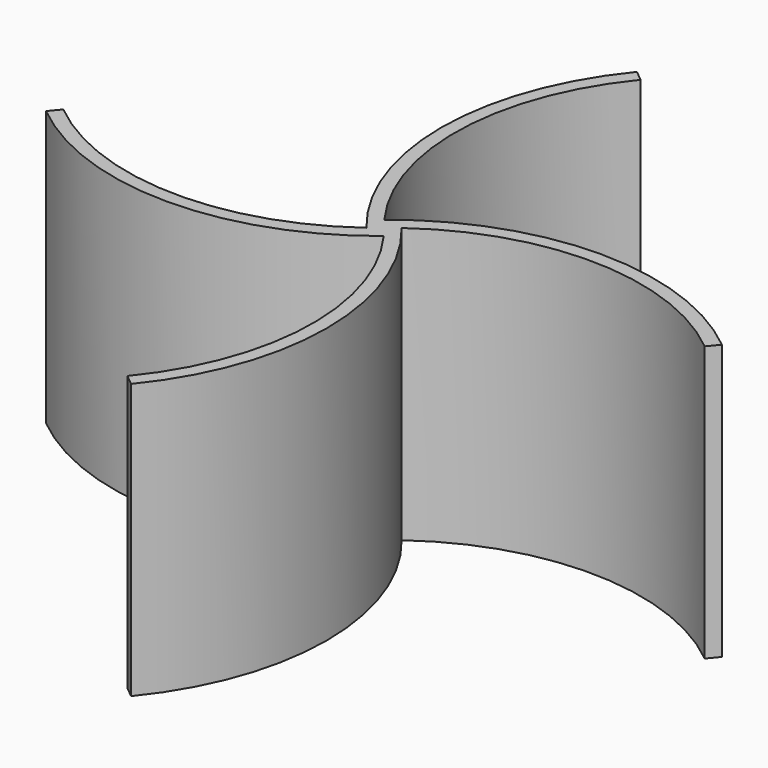
from build123d import *

# Parameters (mm, degrees)
F1_DEPTH = 76.2
F2_SCALE = 0.5


with BuildPart() as f1:
    # F0 (on Top) → F1 (new body)
    with BuildSketch(Plane.XY):
        with BuildLine():
            ThreePointArc((2.3381830586, -3.0098508649), (15.8899031562, -46.3556693211), (0, -88.9))
            Line((0, -88.9), (2.9440731391, -91.3183741132))
            ThreePointArc((2.9440731391, -91.3183741132), (19.7258191096, -44.5018587371), (3.0098508649, 2.3381830586))
            ThreePointArc((3.0098508649, 2.3381830586), (46.3556693211, 15.8899031562), (88.9, 0))
            Line((88.9, 0), (91.3183741132, 2.9440731391))
            ThreePointArc((91.3183741132, 2.9440731391), (44.5018587371, 19.7258191096), (-2.3381830586, 3.0098508649))
            ThreePointArc((-2.3381830586, 3.0098508649), (-15.8899031562, 46.3556693211), (0, 88.9))
            Line((0, 88.9), (-2.9440731391, 91.3183741132))
            ThreePointArc((-2.9440731391, 91.3183741132), (-19.7258191096, 44.5018587371), (-3.0098508649, -2.3381830586))
            ThreePointArc((-3.0098508649, -2.3381830586), (-46.3556693211, -15.8899031562), (-88.9, 0))
            Line((-88.9, 0), (-91.3183741132, -2.9440731391))
            ThreePointArc((-91.3183741132, -2.9440731391), (-44.5018587371, -19.7258191096), (2.3381830586, -3.0098508649))
        make_face()
    extrude(amount=F1_DEPTH)


with BuildPart() as f1_1:
    # F2: moved
    add(f1.part.scale(F2_SCALE))


solid = f1_1.part
